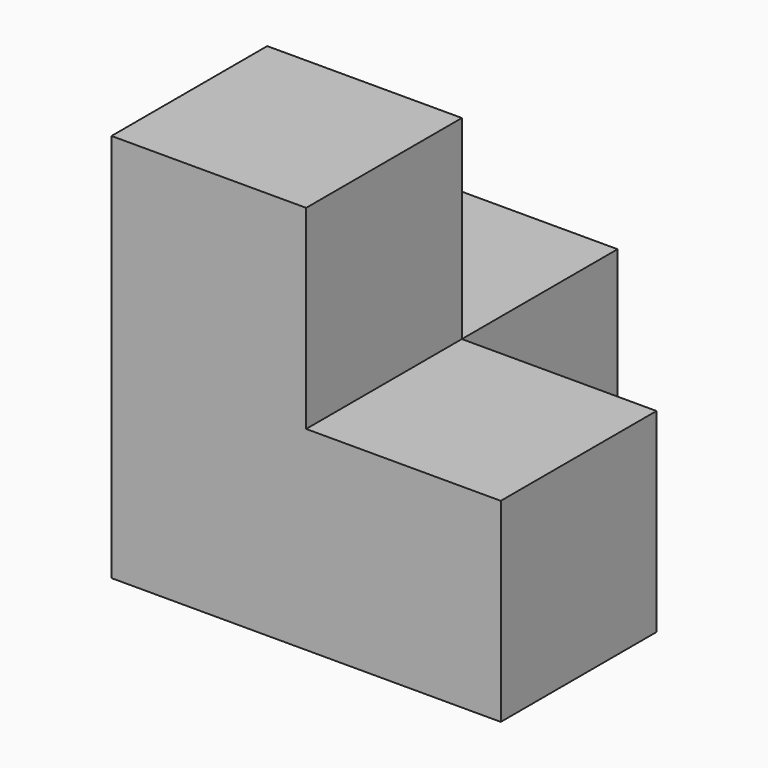
from build123d import *

# Parameters (mm, degrees)
BOX001_W     = 10
BOX001_H     = 10
BOX001_DEPTH = 10
BOX003_W     = 10
BOX003_H     = 10
BOX003_DEPTH = 10
BOX004_W     = 10
BOX004_H     = 10
BOX004_DEPTH = 10
BOX_W        = 10
BOX_H        = 10
BOX_DEPTH    = 10


with BuildPart() as cub001:
    # Box001 → Box001 (new body)
    with BuildSketch(Plane.XY.offset(10)):
        with Locations((5, 5)):
            Rectangle(BOX001_W, BOX001_H)
    extrude(amount=BOX001_DEPTH)


with BuildPart() as cub003:
    # Box003 → Box003 (new body)
    with BuildSketch(Plane(origin=(0, 10, 0), x_dir=(1, 0, 0), z_dir=(0, 0, 1))):
        with Locations((5, 5)):
            Rectangle(BOX003_W, BOX003_H)
    extrude(amount=BOX003_DEPTH)


with BuildPart() as cub004:
    # Box004 → Box004 (new body)
    with BuildSketch(Plane(origin=(10, 0, 0), x_dir=(1, 0, 0), z_dir=(0, 0, 1))):
        with Locations((5, 5)):
            Rectangle(BOX004_W, BOX004_H)
    extrude(amount=BOX004_DEPTH)


with BuildPart() as fusion:
    # Box → Box (new body)
    with BuildSketch(Plane.XY):
        with Locations((5, 5)):
            Rectangle(BOX_W, BOX_H)
    extrude(amount=BOX_DEPTH)

    # Fusion: union Cub001, Cub003, Cub004
    add(cub001.part)
    add(cub003.part)
    add(cub004.part)


solid = fusion.part
